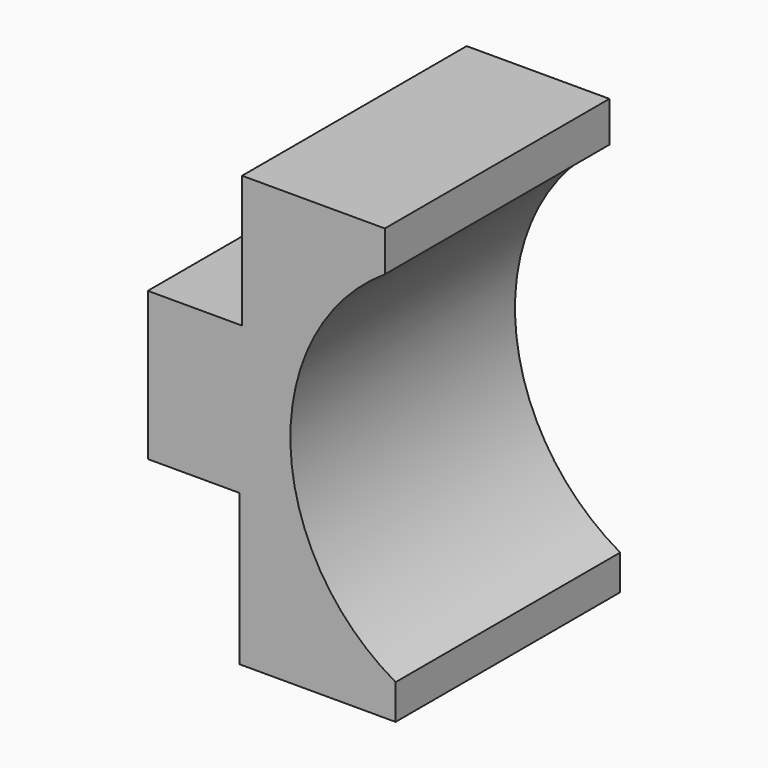
from build123d import *

# Parameters (mm, degrees)
F1_DEPTH = 30


with BuildPart() as f1:
    # F0 (on Front) → F1 (new body)
    with BuildSketch(Plane.XZ):
        with BuildLine():
            Line((-30.651312, 35.831816), (-30.651312, 21.729333))
            Line((-30.651312, 21.729333), (-40.724516, 21.729333))
            Line((-40.724516, 21.729333), (-40.724516, 5.900018))
            Line((-40.724516, 5.900018), (-30.939119, 5.900018))
            Line((-30.939119, 5.900018), (-30.939119, -10.217104))
            Line((-30.939119, -10.217104), (-14.246386, -10.217104))
            Line((-14.246386, -10.217104), (-14.246386, -6.47563))
            ThreePointArc((-14.246386, -6.47563), (-25.479902, 12.196584), (-15.397608, 31.51473))
            Line((-15.397608, 31.51473), (-15.397608, 35.831816))
            Line((-15.397608, 35.831816), (-30.651312, 35.831816))
        make_face()
    extrude(amount=F1_DEPTH)


solid = f1.part
